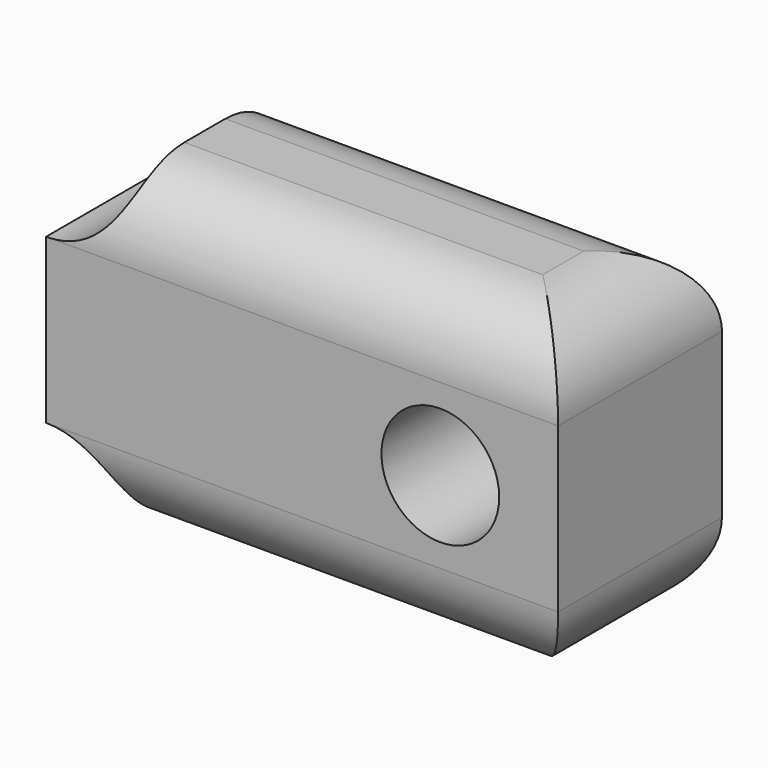
from build123d import *

# Parameters (mm, degrees)
F0_R     = 1.15
F1_DEPTH = 4
F2_R     = 1.5
F3_DEPTH = 5
F4_R     = 1.5


with BuildPart() as f1:
    # F0 (on Front) → F1 (new body)
    with BuildSketch(Plane.XZ):
        with BuildLine():
            Line((5, 3.1), (-3.5, 3.1))
            ThreePointArc((-3.5, 3.1), (-3.93934, 2.03934), (-5, 1.6))
            Line((-5, 1.6), (-5, -1.6))
            ThreePointArc((-5, -1.6), (-3.93934, -2.03934), (-3.5, -3.1))
            Line((-3.5, -3.1), (5, -3.1))
            Line((5, -3.1), (5, 3.1))
        make_face()
        with Locations((2.7, 0)):
            Circle(F0_R, mode=Mode.SUBTRACT)
    extrude(amount=F1_DEPTH)

    # F2 (on face) → F3 (cut)
    with BuildSketch(Plane(origin=(-5, 0, 0), x_dir=(0, -1, 0), z_dir=(-1, 0, 0))):
        with Locations((2, 0)):
            Circle(F2_R)
    extrude(amount=-F3_DEPTH, mode=Mode.SUBTRACT)

    # F4
    f4_edges = [f1.edges().sort_by_distance(p)[0] for p in [
        (0.75, -4, 3.1),
        (0.75, 0, 3.1),
        (5, -2, 3.1),
        (0.75, 0, -3.1),
        (0.75, -4, -3.1),
        (5, -2, -3.1),
    ]]
    fillet(f4_edges, radius=F4_R)


solid = f1.part
